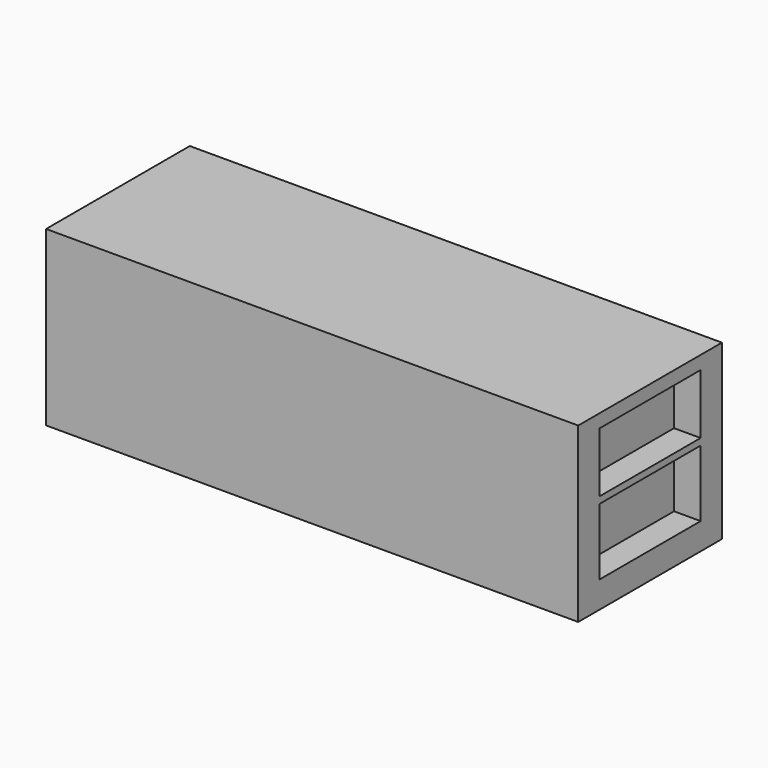
from build123d import *

# Parameters (mm, degrees)
F0_W     = 2032
F0_H     = 660.4
F1_DEPTH = 685.8
F2_W     = 482.6
F2_H     = 228.6
F2_H_2   = 254
F3_DEPTH = 101.6
F4_W     = 482.6
F4_H     = 254
F5_DEPTH = 101.6


with BuildPart() as f1:
    # F0 (on Front) → F1 (new body)
    with BuildSketch(Plane.XZ):
        with Locations((13.692988, -207.793446)):
            Rectangle(F0_W, F0_H)
    extrude(amount=F1_DEPTH)

    # F2 (on face) → F3 (cut)
    with BuildSketch(Plane.YZ.offset(1029.692988)):
        with Locations((-342.9, -42.693446)):
            Rectangle(F2_W, F2_H)
        with Locations((-342.9, -309.393446)):
            Rectangle(F2_W, F2_H_2)
    extrude(amount=-F3_DEPTH, mode=Mode.SUBTRACT)

    # F4 (on face) → F5 (join)
    with BuildSketch(Plane(origin=(-1002.307012, 0, 0), x_dir=(0, -1, 0), z_dir=(-1, 0, 0))):
        with Locations((342.9, -55.393446)):
            Rectangle(F4_W, F4_H)
        with Locations((342.9, -334.793446)):
            Rectangle(F4_W, F4_H)
    extrude(amount=-F5_DEPTH)


solid = f1.part
